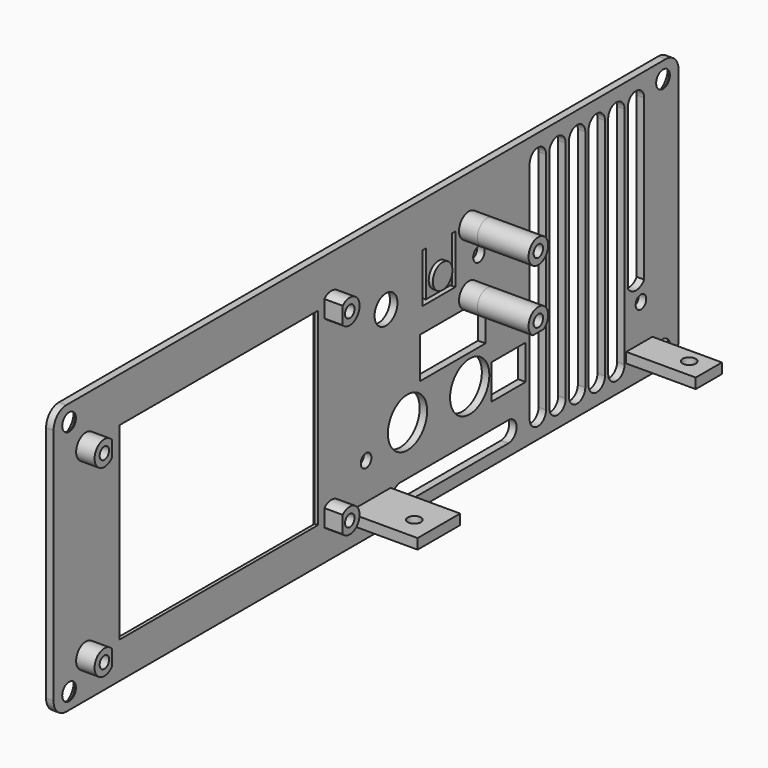
from build123d import *

# Parameters (mm, degrees)
SKETCH007_R           = 2.1
PAD004_DEPTH          = 1.83
CHAMFER_SIZE          = 1.6
SKETCH010_R           = 6
SKETCH010_W           = 10.4
SKETCH010_H           = 8.5
POCKET003_DEPTH       = 5
SKETCH012_R           = 3
SKETCH012_R_2         = 1.45
PAD005_DEPTH          = 4.5
SKETCH011_R           = 1.75
SKETCH011_R_2         = 3.5
SKETCH011_W           = 60.65
SKETCH011_H           = 46.16
POCKET004_DEPTH       = 7.5
CHAMFER001_SIZE       = 1
SKETCH013_W           = 70.5
SKETCH013_H           = 53
POCKET005_DEPTH       = 5
POCKET005_FACE89_R    = 1.45
PAD006_DEPTH          = 0.001
PAD006_FACE88_W       = 4.5
PAD006_FACE88_H       = 3.73839
PAD007_DEPTH          = 0.001
SKETCH014_W           = 13
SKETCH014_H           = 2.5
SKETCH014_W_2         = 8
PAD008_DEPTH          = 17
SKETCH015_R           = 1.6
POCKET006_DEPTH       = 16
PAD009_DEPTH          = 1.83
SKETCH017_R           = 1.625
POCKET007_DEPTH       = 5
SKETCH018_R           = 3
PAD010_DEPTH          = 1
SKETCH019_W           = 20
SKETCH019_H           = 10
POCKET008_DEPTH       = 1.831
POCKET008_DEPTH_BACK  = 17.001
POCKET008_FACE112_R   = 3
POCKET008_FACE112_R_2 = 1.45
PAD011_DEPTH          = 12.5
PAD011_FACE77_R       = 1.45
PAD012_DEPTH          = 12.5


with BuildPart() as part:
    # Sketch007 → Pad004 (new body)
    with BuildSketch(Plane.YZ):
        with BuildLine():
            ThreePointArc((185, 49.2), (183.857716, 51.957716), (181.1, 53.1))
            Line((-2.1, 53.1), (181.1, 53.1))
            ThreePointArc((-2.1, 53.1), (-4.857716, 51.957716), (-6, 49.2))
            Line((-6, -9), (-6, 49.2))
            ThreePointArc((-6, -9), (-4.857716, -11.757716), (-2.1, -12.9))
            Line((181.1, -12.9), (-2.1, -12.9))
            ThreePointArc((181.1, -12.9), (183.857716, -11.757716), (185, -9))
            Line((185, 49.2), (185, -9))
        make_face()
        with Locations((180.25, 49.11)):
            Circle(SKETCH007_R, mode=Mode.SUBTRACT)
        with Locations((180.25, -8.91)):
            Circle(SKETCH007_R, mode=Mode.SUBTRACT)
        with Locations((-1.25, -8.91)):
            Circle(SKETCH007_R, mode=Mode.SUBTRACT)
        with Locations((-1.25, 49.11)):
            Circle(SKETCH007_R, mode=Mode.SUBTRACT)
    extrude(amount=-PAD004_DEPTH)

    # Chamfer
    chamfer_edges = [part.edges().sort_by_distance(p)[0] for p in [
        (-1.83, 178.15, -8.91),
        (-1.83, 178.15, 49.11),
        (-1.83, -3.35, 49.11),
        (-1.83, -3.35, -8.91),
    ]]
    chamfer(chamfer_edges, length=CHAMFER_SIZE)

    # Sketch010 → Pocket003 (cut)
    with BuildSketch(Plane.YZ):
        with Locations((121.17, 7)):
            Circle(SKETCH010_R)
        with Locations((102.17, 7)):
            Circle(SKETCH010_R)
        with Locations((133.08, 5.25)):
            Rectangle(SKETCH010_W, SKETCH010_H)
        with BuildLine():
            ThreePointArc((174.5, 47.45), (172, 49.95), (169.5, 47.45))
            Line((169.5, 47.45), (169.5, -7.55))
            ThreePointArc((169.5, -7.55), (172, -10.05), (174.5, -7.55))
            Line((174.5, -7.55), (174.5, 47.45))
        make_face()
        with BuildLine():
            ThreePointArc((168.5, 47.45), (166, 49.95), (163.5, 47.45))
            Line((163.5, 47.45), (163.5, -7.55))
            ThreePointArc((163.5, -7.55), (166, -10.05), (168.5, -7.55))
            Line((168.5, -7.55), (168.5, 47.45))
        make_face()
        with BuildLine():
            ThreePointArc((162.5, 47.45), (160, 49.95), (157.5, 47.45))
            Line((157.5, 47.45), (157.5, -7.55))
            ThreePointArc((157.5, -7.55), (160, -10.05), (162.5, -7.55))
            Line((162.5, -7.55), (162.5, 47.45))
        make_face()
        with BuildLine():
            ThreePointArc((156.5, 47.45), (154, 49.95), (151.5, 47.45))
            Line((151.5, 47.45), (151.5, -7.55))
            ThreePointArc((151.5, -7.55), (154, -10.05), (156.5, -7.55))
            Line((156.5, -7.55), (156.5, 47.45))
        make_face()
        with BuildLine():
            ThreePointArc((150.5, 47.45), (148, 49.95), (145.5, 47.45))
            Line((145.5, 47.45), (145.5, -7.55))
            ThreePointArc((145.5, -7.55), (148, -10.05), (150.5, -7.55))
            Line((150.5, -7.55), (150.5, 47.45))
        make_face()
        with BuildLine():
            ThreePointArc((144.5, 47.45), (142, 49.95), (139.5, 47.45))
            Line((139.5, 47.45), (139.5, -7.55))
            ThreePointArc((139.5, -7.55), (142, -10.05), (144.5, -7.55))
            Line((144.5, -7.55), (144.5, 47.45))
        make_face()
    extrude(amount=-POCKET003_DEPTH, mode=Mode.SUBTRACT)

    # Sketch012 → Pad005 (join)
    with BuildSketch(Plane.YZ):
        with Locations((3.90349, -3.209935)):
            Circle(SKETCH012_R)
        with Locations((3.90349, -3.209935)):
            Circle(SKETCH012_R_2, mode=Mode.SUBTRACT)
        with Locations((3.90349, 41.790065)):
            Circle(SKETCH012_R)
        with Locations((3.90349, 41.790065)):
            Circle(SKETCH012_R_2, mode=Mode.SUBTRACT)
        with Locations((78.90349, 41.790065)):
            Circle(SKETCH012_R)
        with Locations((78.90349, 41.790065)):
            Circle(SKETCH012_R_2, mode=Mode.SUBTRACT)
        with Locations((120.90349, 41.790065)):
            Circle(SKETCH012_R)
        with Locations((120.90349, 41.790065)):
            Circle(SKETCH012_R_2, mode=Mode.SUBTRACT)
        with Locations((120.90349, 26.790065)):
            Circle(SKETCH012_R)
        with Locations((120.90349, 26.790065)):
            Circle(SKETCH012_R_2, mode=Mode.SUBTRACT)
        with Locations((78.90349, -3.209935)):
            Circle(SKETCH012_R)
        with Locations((78.90349, -3.209935)):
            Circle(SKETCH012_R_2, mode=Mode.SUBTRACT)
    extrude(amount=PAD005_DEPTH)

    # Sketch011 → Pocket004 (cut, symmetric)
    with BuildSketch(Plane.YZ):
        with Locations((123.990425, 34.297939)):
            Circle(SKETCH011_R)
        with Locations((95.603424, 33.973652)):
            Circle(SKETCH011_R_2)
        with Locations((44.465, 19.08)):
            Rectangle(SKETCH011_W, SKETCH011_H)
        Polygon((116.776336, 42.158814), (116.776336, 30.158814), (106.776336, 30.158814), (106.776336, 42.158814), (107.776336, 42.158814), (107.776336, 31.158814), (115.776336, 31.158814), (115.776336, 42.158814), align=None)
    extrude(amount=POCKET004_DEPTH, both=True, mode=Mode.SUBTRACT)

    # Chamfer001
    chamfer001_edges = [part.edges().sort_by_distance(p)[0] for p in [
        (-1.83, 74.79, 19.08),
        (-1.83, 44.465, 42.16),
        (-1.83, 14.14, 19.08),
        (-1.83, 44.465, -4),
    ]]
    chamfer(chamfer001_edges, length=CHAMFER001_SIZE)

    # Sketch013 → Pocket005 (cut)
    with BuildSketch(Plane.YZ):
        with Locations((41.5, 19.4)):
            Rectangle(SKETCH013_W, SKETCH013_H)
    extrude(amount=POCKET005_DEPTH, mode=Mode.SUBTRACT)

    # Pocket005 Face89 → Pad006 (add)
    with BuildSketch(Plane(origin=(4.5, 3.685812, -3.209935), x_dir=(0, -1, 0), z_dir=(1, 0, 0))):
        with BuildLine():
            Line((-2.564188, 1.869195), (-2.564188, -1.869195))
            ThreePointArc((-2.564188, -1.869195), (2.782322, 0), (-2.564188, 1.869195))
        make_face()
        with Locations((-0.217678, 0)):
            Circle(POCKET005_FACE89_R, mode=Mode.SUBTRACT)
    extrude(amount=PAD006_DEPTH)

    # Pad006 Face88 → Pad007 (add)
    with BuildSketch(Plane(origin=(2.25, 6.25, -3.209935), x_dir=(1, 0, 0), z_dir=(0, 1, 0))):
        Rectangle(PAD006_FACE88_W, PAD006_FACE88_H)
    extrude(amount=PAD007_DEPTH)

    # Sketch014 → Pad008 (join)
    with BuildSketch(Plane.YZ):
        with Locations((90.5, -6.25)):
            Rectangle(SKETCH014_W, SKETCH014_H)
        with Locations((173, -6.25)):
            Rectangle(SKETCH014_W_2, SKETCH014_H)
    extrude(amount=PAD008_DEPTH)

    # Sketch015 → Pocket006 (cut, symmetric)
    with BuildSketch(Plane.XY):
        with Locations((11.8, 173.5)):
            Circle(SKETCH015_R)
        with Locations((11.8, 89.5)):
            Circle(SKETCH015_R)
    extrude(amount=POCKET006_DEPTH, both=True, mode=Mode.SUBTRACT)

    # Sketch016 → Pad009 (join)
    with BuildSketch(Plane.YZ):
        with BuildLine():
            Line((169.016877, 10), (169.016877, -11))
            Line((169.016877, -11), (175.016877, -11))
            Line((175.016877, -11), (175.016877, 10))
            ThreePointArc((169.016877, 10), (172.016877, 7), (175.016877, 10))
        make_face()
    extrude(amount=-PAD009_DEPTH)

    # Sketch017 → Pocket007 (cut)
    with BuildSketch(Plane.YZ):
        with Locations((173.501823, 3.91)):
            Circle(SKETCH017_R)
        with Locations((89.501823, 3.91)):
            Circle(SKETCH017_R)
        with BuildLine():
            ThreePointArc((133, -10.05), (135.5, -7.55), (133, -5.05))
            Line((133, -5.05), (100, -5.05))
            ThreePointArc((100, -5.05), (97.5, -7.55), (100, -10.05))
            Line((100, -10.05), (133, -10.05))
        make_face()
    extrude(amount=-POCKET007_DEPTH, mode=Mode.SUBTRACT)

    # Sketch018 → Pad010 (join)
    with BuildSketch(Plane.YZ):
        with Locations((111.649826, 34.942547)):
            Circle(SKETCH018_R)
    extrude(amount=PAD010_DEPTH)

    # Sketch019 → Pocket008 (cut, two sides)
    with BuildSketch(Plane.YZ) as pocket008_sk:
        with Locations((116, 19.3)):
            Rectangle(SKETCH019_W, SKETCH019_H)
    extrude(amount=-POCKET008_DEPTH, mode=Mode.SUBTRACT)
    extrude(pocket008_sk.sketch, amount=POCKET008_DEPTH_BACK, mode=Mode.SUBTRACT)

    # Pocket008 Face112 → Pad011 (add)
    with BuildSketch(Plane(origin=(4.5, 120.90349, 41.790065), x_dir=(0, -1, 0), z_dir=(1, 0, 0))):
        Circle(POCKET008_FACE112_R)
        Circle(POCKET008_FACE112_R_2, mode=Mode.SUBTRACT)
    extrude(amount=PAD011_DEPTH)

    # Pad011 Face77 → Pad012 (add)
    with BuildSketch(Plane(origin=(4.5, 120.90349, 26.942319), x_dir=(0, -1, 0), z_dir=(1, 0, 0))):
        with BuildLine():
            ThreePointArc((-1.673193, 2.642319), (-2.647601, 1.563002), (-3, 0.152254))
            ThreePointArc((-3, 0.152254), (1.410748, -2.495347), (1.673193, 2.642319))
            Line((1.673193, 2.642319), (-1.673193, 2.642319))
        make_face()
        with Locations((0, 0.152254)):
            Circle(PAD011_FACE77_R, mode=Mode.SUBTRACT)
    extrude(amount=PAD012_DEPTH)


with BuildPart() as part_1:
    # Body002 placement: moved
    add(part.part.moved(Location((-0.6, 0, 0))))


solid = part_1.part
